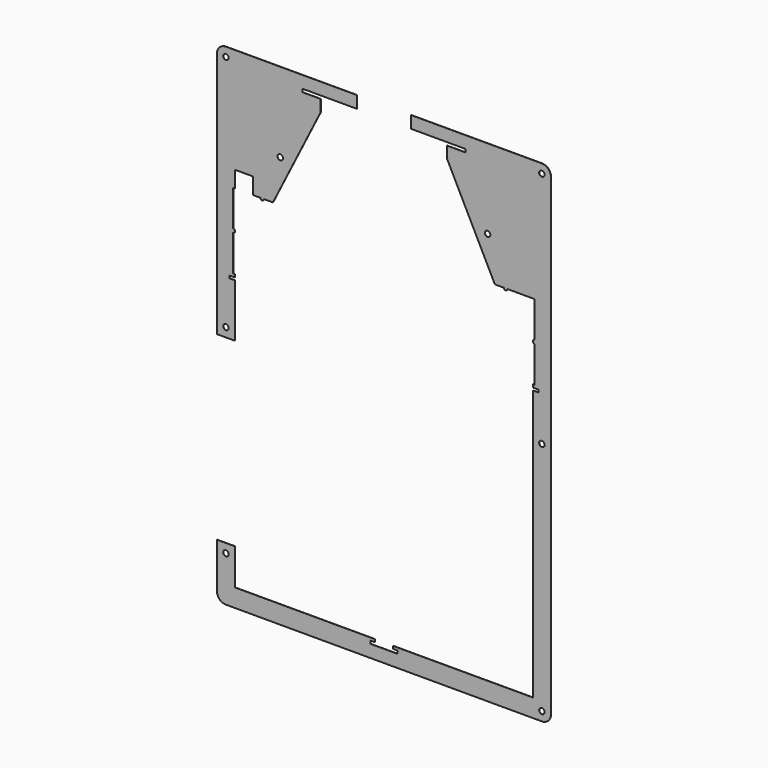
from build123d import *

# Parameters (mm, degrees)
F0_R     = 1.5
F0_W     = 3
F0_H     = 0.6
F1_DEPTH = 0.118


with BuildPart() as f1:
    # F0 (on Front) → F1 (new body)
    with BuildSketch(Plane.XZ):
        with BuildLine():
            Line((110.0284859866, 145.1858304774), (37.7284859866, 145.1858304774))
            Line((37.7284859866, 145.1858304774), (37.7284859866, 138.4858304774))
            Line((37.7284859866, 138.4858304774), (67.7284859866, 138.4858304774))
            Line((67.7284859866, 138.4858304774), (67.7284859866, 136.7858304774))
            Line((67.7284859866, 136.7858304774), (57.7284859866, 136.7858304774))
            Line((57.7284859866, 136.7858304774), (57.7284859866, 135.1858304774))
            Line((57.7284859866, 135.1858304774), (105.0284859866, 135.1858304774))
            Line((105.0284859866, 135.1858304774), (105.0284859866, 77.8758304774))
            Line((105.0284859866, 77.8758304774), (106.0284859866, 77.8758304774))
            Line((106.0284859866, 77.8758304774), (106.0284859866, 58.0508304774))
            ThreePointArc((106.0284859866, 58.0508304774), (106.7355927678, 57.7579372586), (107.0284859866, 57.0508304774))
            ThreePointArc((107.0284859866, 57.0508304774), (106.7355927678, 56.3437236962), (106.0284859866, 56.0508304774))
            Line((106.0284859866, 56.0508304774), (106.0284859866, 36.1258304774))
            Line((106.0284859866, 36.1258304774), (105.0284859866, 36.1258304774))
            Line((105.0284859866, 36.1258304774), (105.0284859866, 35.1258304774))
            Line((105.0284859866, 35.1258304774), (108.0284859866, 35.1258304774))
            Line((108.0284859866, 35.1258304774), (108.0284859866, 34.5258304774))
            Line((108.0284859866, 34.5258304774), (108.0284859866, 33.1258304774))
            Line((108.0284859866, 33.1258304774), (105.0284859866, 33.1258304774))
            Line((105.0284859866, 33.1258304774), (105.0284859866, 23.1258304774))
            Line((105.0284859866, 23.1258304774), (105.0284859866, -116.2741695226))
            Line((105.0284859866, -116.2741695226), (27.7284859866, -116.2741695226))
            Line((27.7284859866, -116.2741695226), (27.7284859866, -117.7541695226))
            Line((27.7284859866, -117.7541695226), (30.2284859866, -117.7541695226))
            Line((30.2284859866, -117.7541695226), (30.2284859866, -119.3541695226))
            Line((30.2284859866, -119.3541695226), (15.2284859866, -119.3541695226))
            Line((15.2284859866, -119.3541695226), (15.2284859866, -117.7541695226))
            Line((15.2284859866, -117.7541695226), (17.7284859866, -117.7541695226))
            Line((17.7284859866, -117.7541695226), (17.7284859866, -116.2741695226))
            Line((17.7284859866, -116.2741695226), (-59.5715140134, -116.2741695226))
            Line((-59.5715140134, -116.2741695226), (-59.5715140134, -96.2741695226))
            Line((-59.5715140134, -96.2741695226), (-69.5715140134, -96.2741695226))
            Line((-69.5715140134, -96.2741695226), (-69.5715140134, -121.2741695226))
            ThreePointArc((-69.5715140134, -121.2741695226), (-68.1070479193, -124.8097034285), (-64.5715140134, -126.2741695226))
            Line((-64.5715140134, -126.2741695226), (110.0284859866, -126.2741695226))
            ThreePointArc((110.0284859866, -126.2741695226), (113.5640198925, -124.8097034285), (115.0284859866, -121.2741695226))
            Line((115.0284859866, -121.2741695226), (115.0284859866, 140.1858304774))
            ThreePointArc((115.0284859866, 140.1858304774), (113.5640198925, 143.7213643833), (110.0284859866, 145.1858304774))
        make_face()
        with Locations((-64.5715140134, -101.2741695226)):
            Circle(F0_R, mode=Mode.SUBTRACT)
        with Locations((110.0284859866, -121.2741695226)):
            Circle(F0_R, mode=Mode.SUBTRACT)
        with Locations((110.0284859866, 8.7258304774)):
            Circle(F0_R, mode=Mode.SUBTRACT)
        with Locations((110.0284859866, 140.1858304774)):
            Circle(F0_R, mode=Mode.SUBTRACT)
        with Locations((106.5284859866, 34.8258304774)):
            Rectangle(F0_W, F0_H)
        with BuildLine():
            Line((105.0284859866, 135.1858304774), (57.7284859866, 135.1858304774))
            Line((57.7284859866, 135.1858304774), (57.7284859866, 130.1858304774))
            Line((57.7284859866, 130.1858304774), (84.0336422698, 77.8758304774))
            Line((84.0336422698, 77.8758304774), (89.0284859866, 77.8758304774))
            ThreePointArc((89.0284859866, 77.8758304774), (90.0284859866, 78.8758304774), (91.0284859866, 77.8758304774))
            Line((91.0284859866, 77.8758304774), (105.0284859866, 77.8758304774))
            Line((105.0284859866, 77.8758304774), (105.0284859866, 135.1858304774))
        make_face()
        with Locations((80.0284859866, 101.1258304774)):
            Circle(F0_R, mode=Mode.SUBTRACT)
        with BuildLine():
            ThreePointArc((107.0284859866, 57.0508304774), (106.7355927678, 57.7579372586), (106.0284859866, 58.0508304774))
            Line((106.0284859866, 58.0508304774), (106.0284859866, 56.0508304774))
            ThreePointArc((106.0284859866, 56.0508304774), (106.7355927678, 56.3437236962), (107.0284859866, 57.0508304774))
        make_face()
        with BuildLine():
            Line((106.0284859866, 56.0508304774), (106.0284859866, 58.0508304774))
            ThreePointArc((106.0284859866, 58.0508304774), (105.3213792054, 57.7579372586), (105.0284859866, 57.0508304774))
            ThreePointArc((105.0284859866, 57.0508304774), (105.3213792054, 56.3437236962), (106.0284859866, 56.0508304774))
        make_face()
        with BuildLine():
            ThreePointArc((90.0284859866, 76.8758304774), (90.7355927678, 77.1687236962), (91.0284859866, 77.8758304774))
            Line((91.0284859866, 77.8758304774), (89.0284859866, 77.8758304774))
            ThreePointArc((89.0284859866, 77.8758304774), (89.3213792054, 77.1687236962), (90.0284859866, 76.8758304774))
        make_face()
        with BuildLine():
            Line((89.0284859866, 77.8758304774), (91.0284859866, 77.8758304774))
            ThreePointArc((91.0284859866, 77.8758304774), (90.0284859866, 78.8758304774), (89.0284859866, 77.8758304774))
        make_face()
    extrude(amount=F1_DEPTH)


with BuildPart() as f1b:
    # F0 (on Front) → F1, piece 2 (new body)
    with BuildSketch(Plane.XZ):
        with Locations((-61.0715140134, 34.8258304774)):
            Rectangle(F0_W, F0_H)
        with BuildLine():
            Line((-60.5715140134, 56.0008304774), (-60.5715140134, 58.0008304774))
            ThreePointArc((-60.5715140134, 58.0008304774), (-61.5715140134, 57.0008304774), (-60.5715140134, 56.0008304774))
        make_face()
        with BuildLine():
            ThreePointArc((-60.5715140134, 56.0008304774), (-59.8644072322, 56.2937236962), (-59.5715140134, 57.0008304774))
            ThreePointArc((-59.5715140134, 57.0008304774), (-59.8644072322, 57.7079372586), (-60.5715140134, 58.0008304774))
            Line((-60.5715140134, 58.0008304774), (-60.5715140134, 56.0008304774))
        make_face()
        with BuildLine():
            Line((7.7284859866, 145.1858304774), (-64.5715140134, 145.1858304774))
            ThreePointArc((-64.5715140134, 145.1858304774), (-68.1070479193, 143.7213643833), (-69.5715140134, 140.1858304774))
            Line((-69.5715140134, 140.1858304774), (-69.5715140134, 3.7258304774))
            Line((-69.5715140134, 3.7258304774), (-59.5715140134, 3.7258304774))
            Line((-59.5715140134, 3.7258304774), (-59.5715140134, 23.1258304774))
            Line((-59.5715140134, 23.1258304774), (-59.5715140134, 33.1258304774))
            Line((-59.5715140134, 33.1258304774), (-62.5715140134, 33.1258304774))
            Line((-62.5715140134, 33.1258304774), (-62.5715140134, 34.5258304774))
            Line((-62.5715140134, 34.5258304774), (-62.5715140134, 35.1258304774))
            Line((-62.5715140134, 35.1258304774), (-59.5715140134, 35.1258304774))
            Line((-59.5715140134, 35.1258304774), (-59.5715140134, 36.1258304774))
            Line((-59.5715140134, 36.1258304774), (-60.5715140134, 36.1258304774))
            Line((-60.5715140134, 36.1258304774), (-60.5715140134, 56.0008304774))
            ThreePointArc((-60.5715140134, 56.0008304774), (-61.5715140134, 57.0008304774), (-60.5715140134, 58.0008304774))
            Line((-60.5715140134, 58.0008304774), (-60.5715140134, 77.8758304774))
            Line((-60.5715140134, 77.8758304774), (-59.5715140134, 77.8758304774))
            Line((-59.5715140134, 77.8758304774), (-59.5715140134, 86.9258304774))
            Line((-59.5715140134, 86.9258304774), (-59.5715140134, 135.1858304774))
            Line((-59.5715140134, 135.1858304774), (-12.2715140134, 135.1858304774))
            Line((-12.2715140134, 135.1858304774), (-12.2715140134, 136.7858304774))
            Line((-12.2715140134, 136.7858304774), (-22.2715140134, 136.7858304774))
            Line((-22.2715140134, 136.7858304774), (-22.2715140134, 138.4858304774))
            Line((-22.2715140134, 138.4858304774), (7.7284859866, 138.4858304774))
            Line((7.7284859866, 138.4858304774), (7.7284859866, 145.1858304774))
        make_face()
        with Locations((-64.5715140134, 8.7258304774)):
            Circle(F0_R, mode=Mode.SUBTRACT)
        with Locations((-64.5715140134, 140.1858304774)):
            Circle(F0_R, mode=Mode.SUBTRACT)
        with BuildLine():
            Line((-12.2715140134, 130.1858304774), (-12.2715140134, 135.1858304774))
            Line((-12.2715140134, 135.1858304774), (-59.5715140134, 135.1858304774))
            Line((-59.5715140134, 135.1858304774), (-59.5715140134, 86.9258304774))
            Line((-59.5715140134, 86.9258304774), (-49.5715140134, 86.9258304774))
            Line((-49.5715140134, 86.9258304774), (-49.5715140134, 77.8758304774))
            Line((-49.5715140134, 77.8758304774), (-45.5715140134, 77.8758304774))
            ThreePointArc((-45.5715140134, 77.8758304774), (-44.5715140134, 78.8758304774), (-43.5715140134, 77.8758304774))
            Line((-43.5715140134, 77.8758304774), (-38.5766702966, 77.8758304774))
            Line((-38.5766702966, 77.8758304774), (-12.2715140134, 130.1858304774))
        make_face()
        with Locations((-34.5715140134, 101.1258304774)):
            Circle(F0_R, mode=Mode.SUBTRACT)
        with BuildLine():
            ThreePointArc((-44.5715140134, 76.8758304774), (-43.8644072322, 77.1687236962), (-43.5715140134, 77.8758304774))
            Line((-43.5715140134, 77.8758304774), (-45.5715140134, 77.8758304774))
            ThreePointArc((-45.5715140134, 77.8758304774), (-45.2786207946, 77.1687236962), (-44.5715140134, 76.8758304774))
        make_face()
        with BuildLine():
            Line((-45.5715140134, 77.8758304774), (-43.5715140134, 77.8758304774))
            ThreePointArc((-43.5715140134, 77.8758304774), (-44.5715140134, 78.8758304774), (-45.5715140134, 77.8758304774))
        make_face()
    extrude(amount=F1_DEPTH)


solid = Compound([f1.part, f1b.part])
